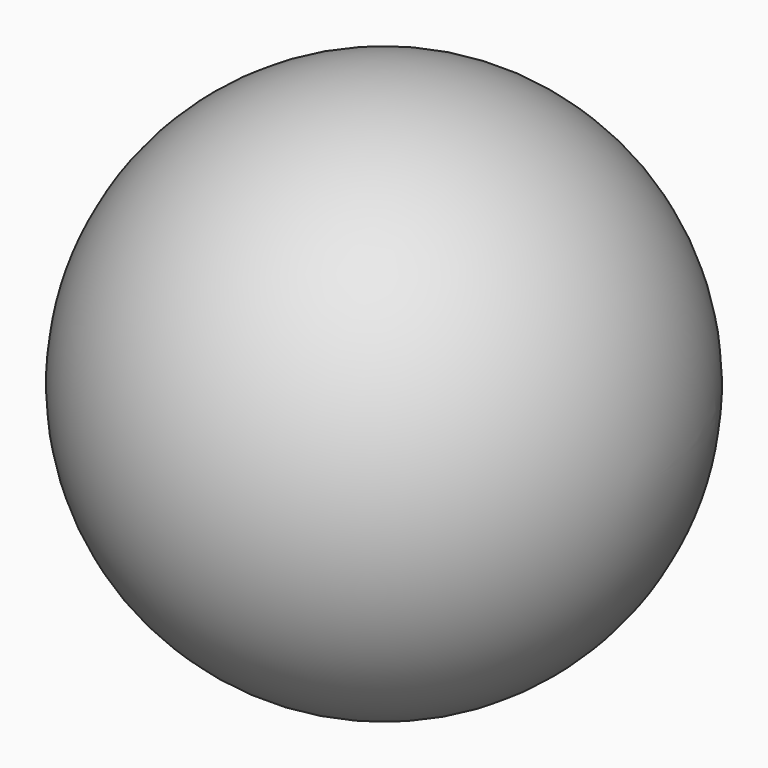
from build123d import *

# Parameters (mm, degrees)
F2_T     = -2
F3_R     = 2.5
F4_DEPTH = 32.501


with BuildPart() as f1:
    # F0 (on Top) → F1 (revolve)
    with BuildSketch(Plane.XY):
        with BuildLine():
            ThreePointArc((32.5, 0), (0, 32.5), (-32.5, 0))
            Line((-32.5, 0), (32.5, 0))
        make_face()
    revolve(axis=Axis((0, 0, 0), (1, 0, 0)))

    # F2 (hollow: no face is removed)
    offset(amount=F2_T, mode=Mode.SUBTRACT)

    # F3 (on Top) → F4 (cut, through all)
    with BuildSketch(Plane.XY):
        Circle(F3_R)
    extrude(amount=-F4_DEPTH, mode=Mode.SUBTRACT)


solid = f1.part
